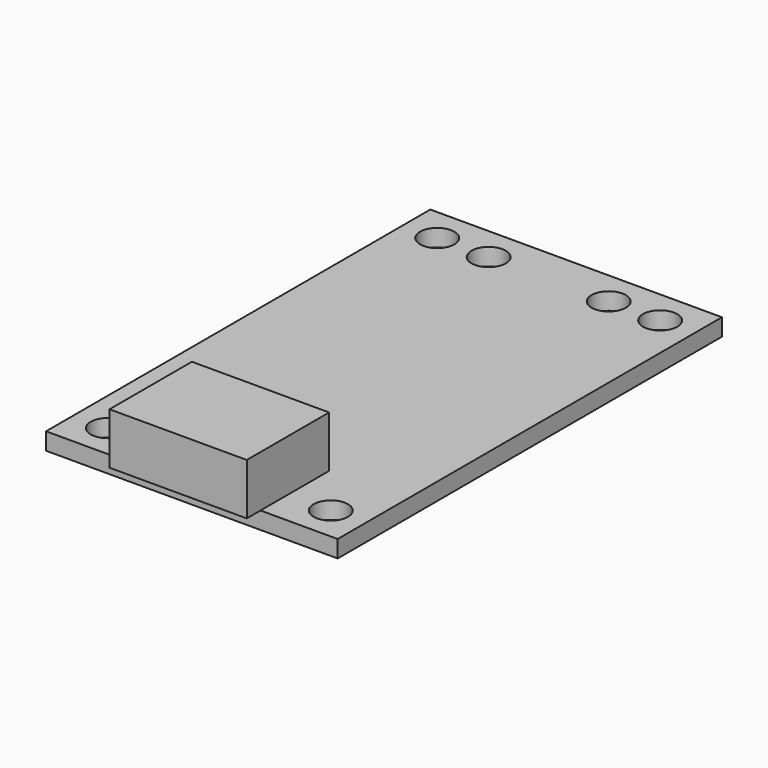
from build123d import *

# Parameters (mm, degrees)
F0_W     = 17
F0_H     = 28
F0_R     = 1
F1_DEPTH = 1
F2_W     = 8
F2_H     = 6
F3_DEPTH = 3


with BuildPart() as f1:
    # F0 (on Top) → F1 (new body)
    with BuildSketch(Plane.XY):
        with Locations((8.5, 14)):
            Rectangle(F0_W, F0_H)
        with Locations((2, 2)):
            Circle(F0_R, mode=Mode.SUBTRACT)
        with Locations((15, 2)):
            Circle(F0_R, mode=Mode.SUBTRACT)
        with Locations((2, 26)):
            Circle(F0_R, mode=Mode.SUBTRACT)
        with Locations((5, 26)):
            Circle(F0_R, mode=Mode.SUBTRACT)
        with Locations((12, 26)):
            Circle(F0_R, mode=Mode.SUBTRACT)
        with Locations((15, 26)):
            Circle(F0_R, mode=Mode.SUBTRACT)
    extrude(amount=F1_DEPTH)

    # F2 (on face) → F3 (join)
    with BuildSketch(Plane.XY.offset(1)):
        with Locations((8.5, 2)):
            Rectangle(F2_W, F2_H)
    extrude(amount=F3_DEPTH)


solid = f1.part
